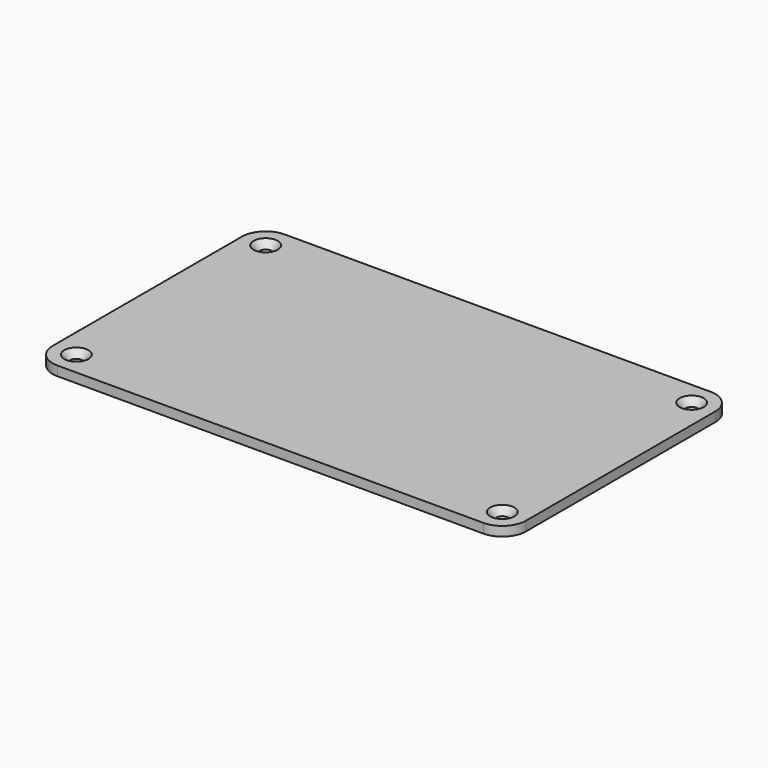
from build123d import *

# Parameters (mm, degrees)
F1_DEPTH       = 2.54
F3_D           = 3.2639
F3_CSINK_D     = 6.477
F3_CSINK_ANGLE = 82


with BuildPart() as f1:
    # F0 (on Top) → F1 (new body)
    with BuildSketch(Plane.XY):
        with BuildLine():
            Line((120.65, 76.2), (6.35, 76.2))
            ThreePointArc((6.35, 76.2), (1.8598719395, 74.3401280605), (0, 69.85))
            Line((0, 69.85), (0, 6.35))
            ThreePointArc((0, 6.35), (1.8598719395, 1.8598719395), (6.35, 0))
            Line((6.35, 0), (120.65, 0))
            ThreePointArc((120.65, 0), (125.1401280605, 1.8598719395), (127, 6.35))
            Line((127, 6.35), (127, 69.85))
            ThreePointArc((127, 69.85), (125.1401280605, 74.3401280605), (120.65, 76.2))
        make_face()
    extrude(amount=F1_DEPTH)

    # F3 (through all)
    with Locations(Plane.XY.offset(2.54)):
        with Locations((6.35, 69.85), (6.35, 6.35), (120.65, 6.35), (120.65, 69.85)):
            CounterSinkHole(F3_D / 2, F3_CSINK_D / 2, counter_sink_angle=F3_CSINK_ANGLE)


solid = f1.part
